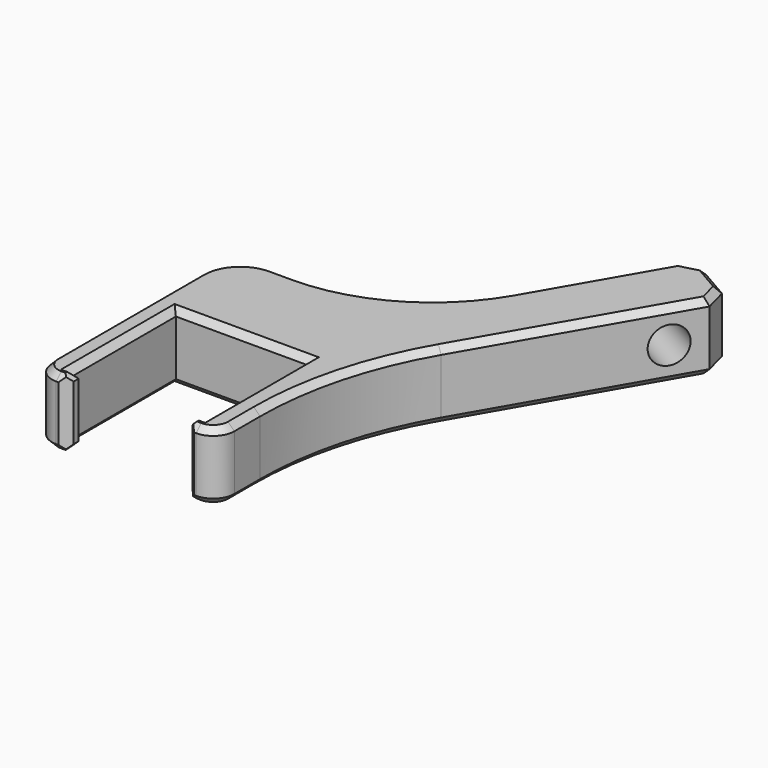
from build123d import *

# Parameters (mm, degrees)
F0_W     = 0.75
F0_H     = 1.75
F1_DEPTH = 8
F2_R     = 40
F3_R     = 20
F4_R     = 5
F5_R     = 2.5
F6_SIZE  = 2
F7_R     = 2.125
F8_DEPTH = 37.1109272381
F9_SIZE  = 0.75
F10_SIZE = 1


with BuildPart() as f1:
    # F0 (on Top) → F1 (new body)
    with BuildSketch(Plane.XY):
        Polygon((-10.75, -17), (-7.75, -17), (-7.75, -15.25), (-7.75, 0), (7.75, 0), (7.75, -15.25), (7.75, -17), (10.75, -17), (10.75, 0), (30.3688021535, 33.9807621135), (23.4405989232, 37.9807621135), (8.4405989232, 12), (-10.75, 12), align=None)
        with Locations((-7.375, -16.125)):
            Rectangle(F0_W, F0_H)
        with Locations((7.375, -16.125)):
            Rectangle(F0_W, F0_H)
    extrude(amount=F1_DEPTH)

    # F2
    f2_edges = [f1.edges().sort_by_distance(p)[0] for p in [
        (10.75, 0, 4),
    ]]
    fillet(f2_edges, radius=F2_R)

    # F3
    f3_edges = [f1.edges().sort_by_distance(p)[0] for p in [
        (8.440599, 12, 4),
    ]]
    fillet(f3_edges, radius=F3_R)

    # F4
    f4_edges = [f1.edges().sort_by_distance(p)[0] for p in [
        (-10.75, 12, 4),
    ]]
    fillet(f4_edges, radius=F4_R)

    # F5
    f5_edges = [f1.edges().sort_by_distance(p)[0] for p in [
        (10.75, -17, 4),
        (-10.75, -17, 4),
    ]]
    fillet(f5_edges, radius=F5_R)

    # F6
    f6_edges = [f1.edges().sort_by_distance(p)[0] for p in [
        (30.368802, 33.980762, 4),
        (23.440599, 37.980762, 4),
    ]]
    chamfer(f6_edges, length=F6_SIZE)

    # F7 (on face) → F8 (cut, through all)
    with BuildSketch(Plane(origin=(8.0625, -4.6548865453, 0), x_dir=(0.5, 0.8660254038, 0), z_dir=(0.8660254038, -0.5, 0))):
        with Locations((38.612604307, 4)):
            Circle(F7_R)
    extrude(amount=-F8_DEPTH, mode=Mode.SUBTRACT)

    # F9
    f9_edges = [f1.edges().sort_by_distance(p)[0] for p in [
        (18.32735, 29.124356, 8),
        (23.806624, 36.614737, 8),
        (6.893594, 14.679492, 8),
        (26.904701, 35.980762, 8),
        (-4.428203, 12, 8),
        (29.002777, 33.614737, 8),
        (-9.285534, 10.535534, 8),
        (22.738893, 20.765372, 8),
        (-10.75, -3.75, 8),
        (12.112967, -0.365206, 8),
        (-10.017767, -16.267767, 8),
        (10.75, -12.608984, 8),
        (-7.625, -17, 8),
        (10.017767, -16.267767, 8),
        (-7, -16.125, 8),
        (7.625, -17, 8),
        (-7.375, -15.25, 8),
        (7, -16.125, 8),
        (-7.75, -7.625, 8),
        (7.375, -15.25, 8),
        (0, 0, 8),
        (7.75, -7.625, 8),
        (18.32735, 29.124356, 0),
        (23.806624, 36.614737, 0),
        (6.893594, 14.679492, 0),
        (26.904701, 35.980762, 0),
        (-4.428203, 12, 0),
        (29.002777, 33.614737, 0),
        (-9.285534, 10.535534, 0),
        (22.738893, 20.765372, 0),
        (-10.75, -3.75, 0),
        (12.112967, -0.365206, 0),
        (-10.017767, -16.267767, 0),
        (10.75, -12.608984, 0),
        (-7.625, -17, 0),
        (10.017767, -16.267767, 0),
        (-7, -16.125, 0),
        (7.625, -17, 0),
        (-7.375, -15.25, 0),
        (7, -16.125, 0),
        (-7.75, -7.625, 0),
        (7.375, -15.25, 0),
        (0, 0, 0),
        (7.75, -7.625, 0),
    ]]
    chamfer(f9_edges, length=F9_SIZE)

    # F10
    f10_edges = [f1.edges().sort_by_distance(p)[0] for p in [
        (-7, -17, 4),
        (7, -17, 4),
    ]]
    chamfer(f10_edges, length=F10_SIZE)


solid = f1.part
